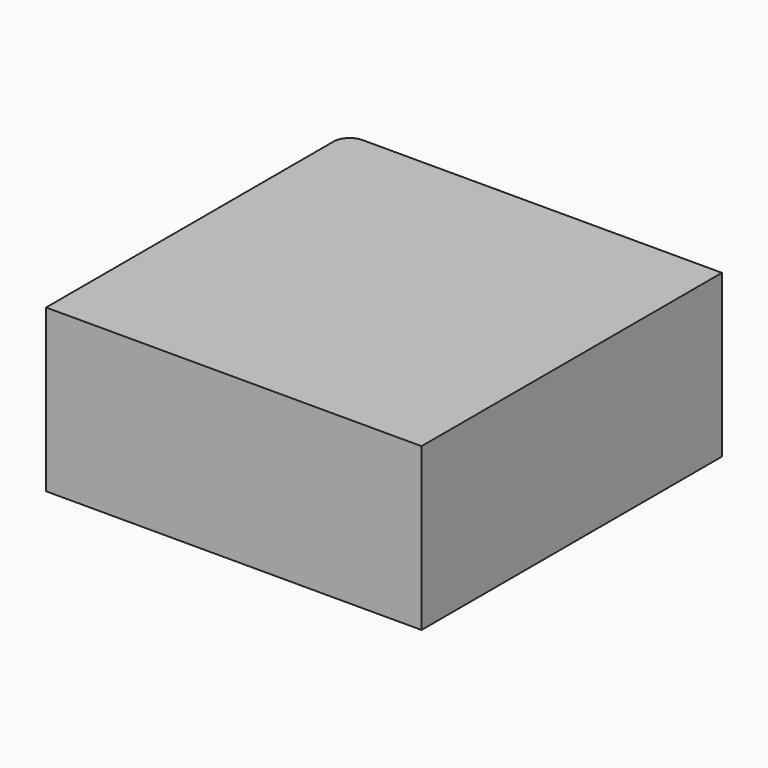
from build123d import *

# Parameters (mm, degrees)
F0_W     = 116
F0_H     = 116
F1_DEPTH = 50
F2_W     = 110
F2_H     = 110
F3_DEPTH = 45
F4_R     = 5


with BuildPart() as f1:
    # F0 (on Top) → F1 (new body)
    with BuildSketch(Plane.XY):
        Rectangle(F0_W, F0_H)
    extrude(amount=F1_DEPTH)

    # F2 (on Top) → F3 (cut)
    with BuildSketch(Plane.XY):
        Rectangle(F2_W, F2_H)
    extrude(amount=F3_DEPTH, mode=Mode.SUBTRACT)

    # F4
    f4_edges = [f1.edges().sort_by_distance(p)[0] for p in [
        (-58, 58, 25),
        (55, 55, 22.5),
        (-55, -55, 22.5),
        (55, -55, 22.5),
    ]]
    fillet(f4_edges, radius=F4_R)


solid = f1.part
